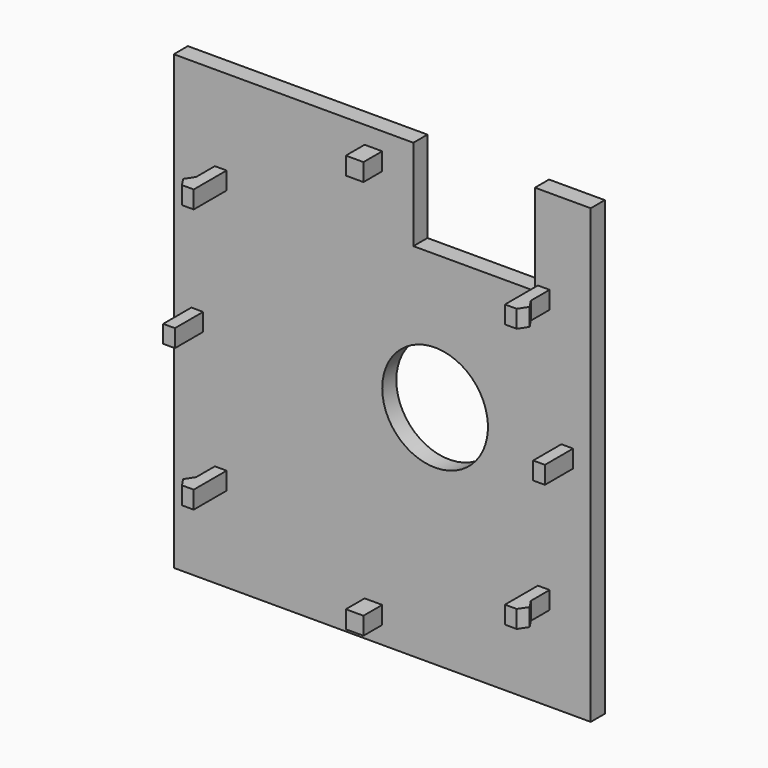
from build123d import *

# Parameters (mm, degrees)
SKETCH010_R             = 9
PAD006_DEPTH            = 3
PAD007_DEPTH            = 3
SKETCH012_W             = 2
SKETCH012_H             = 6
PAD008_DEPTH            = 1.5
SKETCH013_W             = 4
SKETCH013_H             = 3
PAD009_DEPTH            = 1.5
BODY004_PLACEMENT_ANGLE = 180


with BuildPart() as part:
    # Sketch010 → Pad006 (new body)
    with BuildSketch(Plane.XZ):
        Polygon((68, 38.5), (68, -38.5), (-3, -38.5), (-3, 38.5), (6.5, 38.5), (6.5, 23), (27.2, 23), (27.2, 38.5), align=None)
        with Locations((23.5, 0)):
            Circle(SKETCH010_R, mode=Mode.SUBTRACT)
    extrude(amount=PAD006_DEPTH)

    # Sketch011 → Pad007 (join)
    with BuildSketch(Plane.XY.offset(24)):
        Polygon((61, 0), (61, 4), (62, 5.5), (61, 7), (59, 7), (59, 0), align=None)
        Polygon((4, 0), (4, 4), (3, 5.5), (4, 7), (6, 7), (6, 0), align=None)
    pad007 = extrude(amount=-PAD007_DEPTH)

    # Mirrored002: Pad007 across XY
    add(pad007.mirror(Plane.XY))

    # Sketch012 → Pad008 (join, symmetric)
    with BuildSketch(Plane.XY):
        with Locations((1, 3)):
            Rectangle(SKETCH012_W, SKETCH012_H)
        with Locations((64, 3)):
            Rectangle(SKETCH012_W, SKETCH012_H)
    extrude(amount=PAD008_DEPTH, both=True)

    # Sketch013 → Pad009 (join, symmetric)
    with BuildSketch(Plane.YZ.offset(34)):
        with Locations((2, -34)):
            Rectangle(SKETCH013_W, SKETCH013_H)
        with Locations((2, 34)):
            Rectangle(SKETCH013_W, SKETCH013_H)
    extrude(amount=PAD009_DEPTH, both=True)


with BuildPart() as part_1:
    # Body004 placement: moved
    add(part.part.moved(Location((0, 55, 0))).rotate(Axis((0, 55, 0), (0, 0, 1)), BODY004_PLACEMENT_ANGLE))


solid = part_1.part
